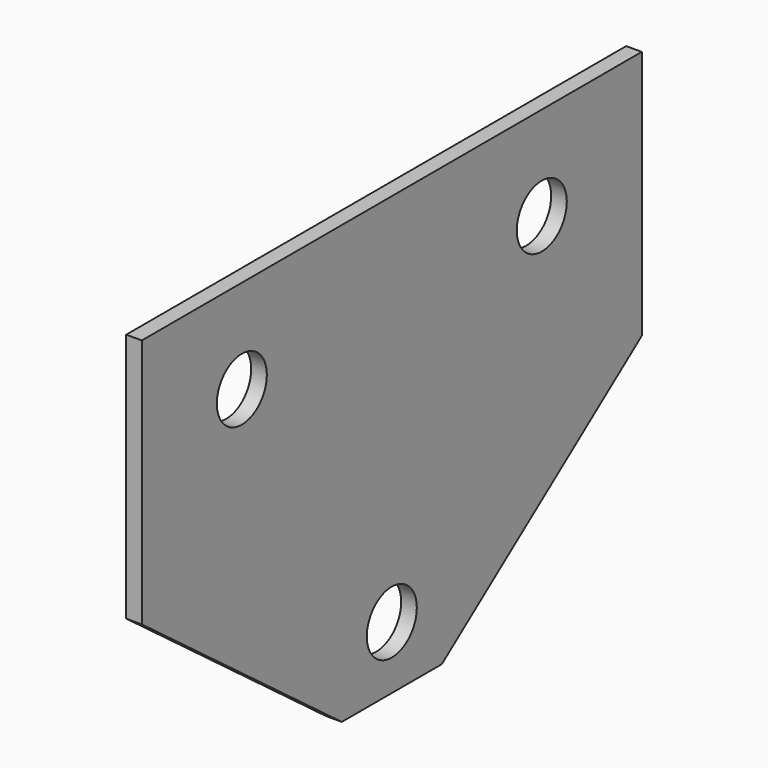
from build123d import *

# Parameters (mm, degrees)
F1_DEPTH = 3.175
F2_R     = 6.35
F3_DEPTH = 3.175


with BuildPart() as f1:
    # F0 (on Right) → F1 (new body)
    with BuildSketch(Plane.YZ):
        Polygon((63.5, 38.1), (-63.5, 38.1), (-63.5, -12.7), (-12.7, -50.8), (12.7, -50.8), (63.5, -12.7), align=None)
    extrude(amount=F1_DEPTH)

    # F2 (on face) → F3 (cut, through all)
    with BuildSketch(Plane.YZ.offset(3.175)):
        with Locations((-38.1, 19.05)):
            Circle(F2_R)
        with Locations((38.1, 19.05)):
            Circle(F2_R)
        with Locations((0, -38.1)):
            Circle(F2_R)
    extrude(amount=-F3_DEPTH, mode=Mode.SUBTRACT)


solid = f1.part
